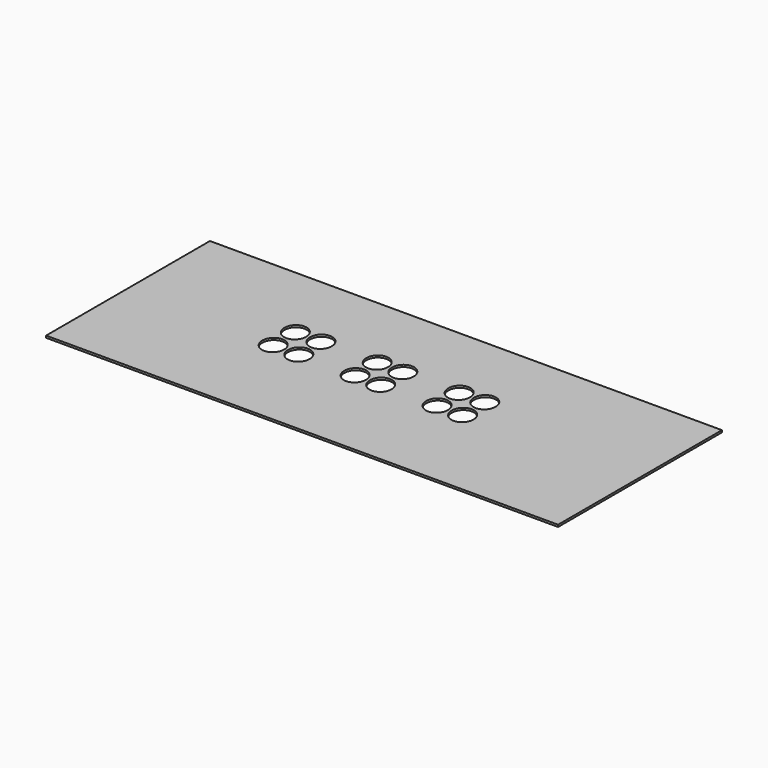
from build123d import *

# Parameters (mm, degrees)
F0_W     = 50
F0_H     = 20
F1_DEPTH = 0.2


with BuildPart() as f1:
    # F0 (on Top) → F1 (new body)
    with BuildSketch(Plane.XY):
        with Locations((25, -10)):
            Rectangle(F0_W, F0_H)
        with BuildLine():
            add(Edge.make_bspline(
                [(15.517839, -9.982863), (14.729655, -8.059646), (13.596988, -9.64696), (12.464321, -11.234274), (14.385173, -11.570177), (16.306024, -11.906081), (15.517839, -9.982863)],
                knots=[4.712389, 4.712389, 4.712389, 6.806784, 6.806784, 8.901179, 8.901179, 10.995574, 10.995574, 10.995574], degree=2, weights=[1, 0.5, 1, 0.5, 1, 0.5, 1]))
        make_face(mode=Mode.SUBTRACT)
        with BuildLine():
            add(Edge.make_bspline(
                [(18.017839, -9.982863), (17.229655, -8.059646), (16.096988, -9.64696), (14.964321, -11.234274), (16.885173, -11.570177), (18.806024, -11.906081), (18.017839, -9.982863)],
                knots=[4.712389, 4.712389, 4.712389, 6.806784, 6.806784, 8.901179, 8.901179, 10.995574, 10.995574, 10.995574], degree=2, weights=[1, 0.5, 1, 0.5, 1, 0.5, 1]))
        make_face(mode=Mode.SUBTRACT)
        with BuildLine():
            add(Edge.make_bspline(
                [(23.517839, -9.982863), (22.729655, -8.059646), (21.596988, -9.64696), (20.464321, -11.234274), (22.385173, -11.570177), (24.306024, -11.906081), (23.517839, -9.982863)],
                knots=[4.712389, 4.712389, 4.712389, 6.806784, 6.806784, 8.901179, 8.901179, 10.995574, 10.995574, 10.995574], degree=2, weights=[1, 0.5, 1, 0.5, 1, 0.5, 1]))
        make_face(mode=Mode.SUBTRACT)
        with BuildLine():
            add(Edge.make_bspline(
                [(26.017839, -9.982863), (25.229655, -8.059646), (24.096988, -9.64696), (22.964321, -11.234274), (24.885173, -11.570177), (26.806024, -11.906081), (26.017839, -9.982863)],
                knots=[4.712389, 4.712389, 4.712389, 6.806784, 6.806784, 8.901179, 8.901179, 10.995574, 10.995574, 10.995574], degree=2, weights=[1, 0.5, 1, 0.5, 1, 0.5, 1]))
        make_face(mode=Mode.SUBTRACT)
        with BuildLine():
            add(Edge.make_bspline(
                [(31.517839, -9.982863), (30.729655, -8.059646), (29.596988, -9.64696), (28.464321, -11.234274), (30.385173, -11.570177), (32.306024, -11.906081), (31.517839, -9.982863)],
                knots=[4.712389, 4.712389, 4.712389, 6.806784, 6.806784, 8.901179, 8.901179, 10.995574, 10.995574, 10.995574], degree=2, weights=[1, 0.5, 1, 0.5, 1, 0.5, 1]))
        make_face(mode=Mode.SUBTRACT)
        with BuildLine():
            add(Edge.make_bspline(
                [(34.017839, -9.982863), (33.229655, -8.059646), (32.096988, -9.64696), (30.964321, -11.234274), (32.885173, -11.570177), (34.806024, -11.906081), (34.017839, -9.982863)],
                knots=[4.712389, 4.712389, 4.712389, 6.806784, 6.806784, 8.901179, 8.901179, 10.995574, 10.995574, 10.995574], degree=2, weights=[1, 0.5, 1, 0.5, 1, 0.5, 1]))
        make_face(mode=Mode.SUBTRACT)
        with BuildLine():
            add(Edge.make_bspline(
                [(15.517839, -7.282863), (14.729655, -5.359646), (13.596988, -6.94696), (12.464321, -8.534274), (14.385173, -8.870177), (16.306024, -9.206081), (15.517839, -7.282863)],
                knots=[4.712389, 4.712389, 4.712389, 6.806784, 6.806784, 8.901179, 8.901179, 10.995574, 10.995574, 10.995574], degree=2, weights=[1, 0.5, 1, 0.5, 1, 0.5, 1]))
        make_face(mode=Mode.SUBTRACT)
        with BuildLine():
            add(Edge.make_bspline(
                [(18.017839, -7.282863), (17.229655, -5.359646), (16.096988, -6.94696), (14.964321, -8.534274), (16.885173, -8.870177), (18.806024, -9.206081), (18.017839, -7.282863)],
                knots=[4.712389, 4.712389, 4.712389, 6.806784, 6.806784, 8.901179, 8.901179, 10.995574, 10.995574, 10.995574], degree=2, weights=[1, 0.5, 1, 0.5, 1, 0.5, 1]))
        make_face(mode=Mode.SUBTRACT)
        with BuildLine():
            add(Edge.make_bspline(
                [(23.517839, -7.282863), (22.729655, -5.359646), (21.596988, -6.94696), (20.464321, -8.534274), (22.385173, -8.870177), (24.306024, -9.206081), (23.517839, -7.282863)],
                knots=[4.712389, 4.712389, 4.712389, 6.806784, 6.806784, 8.901179, 8.901179, 10.995574, 10.995574, 10.995574], degree=2, weights=[1, 0.5, 1, 0.5, 1, 0.5, 1]))
        make_face(mode=Mode.SUBTRACT)
        with BuildLine():
            add(Edge.make_bspline(
                [(26.017839, -7.282863), (25.229655, -5.359646), (24.096988, -6.94696), (22.964321, -8.534274), (24.885173, -8.870177), (26.806024, -9.206081), (26.017839, -7.282863)],
                knots=[4.712389, 4.712389, 4.712389, 6.806784, 6.806784, 8.901179, 8.901179, 10.995574, 10.995574, 10.995574], degree=2, weights=[1, 0.5, 1, 0.5, 1, 0.5, 1]))
        make_face(mode=Mode.SUBTRACT)
        with BuildLine():
            add(Edge.make_bspline(
                [(31.517839, -7.282863), (30.729655, -5.359646), (29.596988, -6.94696), (28.464321, -8.534274), (30.385173, -8.870177), (32.306024, -9.206081), (31.517839, -7.282863)],
                knots=[4.712389, 4.712389, 4.712389, 6.806784, 6.806784, 8.901179, 8.901179, 10.995574, 10.995574, 10.995574], degree=2, weights=[1, 0.5, 1, 0.5, 1, 0.5, 1]))
        make_face(mode=Mode.SUBTRACT)
        with BuildLine():
            add(Edge.make_bspline(
                [(34.017839, -7.282863), (33.229655, -5.359646), (32.096988, -6.94696), (30.964321, -8.534274), (32.885173, -8.870177), (34.806024, -9.206081), (34.017839, -7.282863)],
                knots=[4.712389, 4.712389, 4.712389, 6.806784, 6.806784, 8.901179, 8.901179, 10.995574, 10.995574, 10.995574], degree=2, weights=[1, 0.5, 1, 0.5, 1, 0.5, 1]))
        make_face(mode=Mode.SUBTRACT)
    extrude(amount=F1_DEPTH)


solid = f1.part
